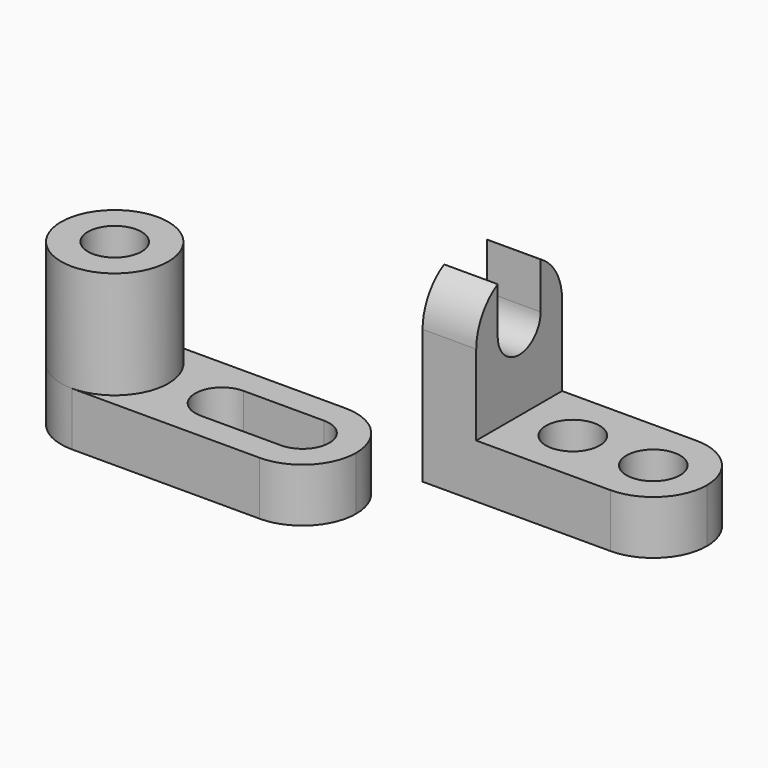
from build123d import *

# Parameters (mm, degrees)
F1_DEPTH  = 25.4
F2_R      = 6.35
F3_DEPTH  = 12.7
F5_DEPTH  = 12.7
F6_W      = 69.85
F6_H      = 25.4
F7_DEPTH  = 12.7
F8_R      = 6.35
F9_DEPTH  = 12.7
F10_DEPTH = 25.4


with BuildPart() as f1:
    # F0 (on Front) → F1 (new body)
    with BuildSketch(Plane.XZ):
        Polygon((0, 44.45), (0, 0), (57.15, 0), (57.15, 12.7), (12.7, 12.7), (12.7, 44.45), align=None)
    extrude(amount=F1_DEPTH)

    # F2 (on face) → F3 (cut)
    with BuildSketch(Plane.XY.offset(12.7)):
        with Locations((25.4, -12.7)):
            Circle(F2_R)
        with Locations((44.45, -12.7)):
            Circle(F2_R)
        with BuildLine():
            ThreePointArc((44.45, 0), (53.4302561211, -3.7197438789), (57.15, -12.7))
            Line((57.15, -12.7), (57.15, 0))
            Line((57.15, 0), (44.45, 0))
        make_face()
        with BuildLine():
            ThreePointArc((57.15, -12.7), (53.4302561211, -21.6802561211), (44.45, -25.4))
            Line((44.45, -25.4), (57.15, -25.4))
            Line((57.15, -25.4), (57.15, -12.7))
        make_face()
    extrude(amount=-F3_DEPTH, mode=Mode.SUBTRACT)

    # F4 (on face) → F5 (cut)
    with BuildSketch(Plane.YZ.offset(12.7)):
        with BuildLine():
            ThreePointArc((-19.05, 31.75), (-12.7, 25.4), (-6.35, 31.75))
            ThreePointArc((-6.35, 31.75), (-12.7, 38.1), (-19.05, 31.75))
        make_face()
        with BuildLine():
            ThreePointArc((-19.05, 31.75), (-12.7, 38.1), (-6.35, 31.75))
            Line((-6.35, 31.75), (-6.35, 42.7070968094))
            ThreePointArc((-6.35, 42.7070968094), (-12.7, 44.4085636898), (-19.05, 42.7070968094))
            Line((-19.05, 42.7070968094), (-19.05, 31.75))
        make_face()
        with BuildLine():
            ThreePointArc((-19.05, 31.75), (-12.7, 38.1), (-6.35, 31.75))
            Line((-6.35, 31.75), (-6.35, 42.7070968094))
            ThreePointArc((-6.35, 42.7070968094), (-12.7, 44.4085636898), (-19.05, 42.7070968094))
            Line((-19.05, 42.7070968094), (-19.05, 31.75))
        make_face()
        with BuildLine():
            ThreePointArc((-19.05, 42.7070968094), (-12.7, 44.4085636898), (-6.35, 42.7070968094))
            Line((-6.35, 42.7070968094), (-6.35, 44.45))
            Line((-6.35, 44.45), (-19.05, 44.45))
            Line((-19.05, 44.45), (-19.05, 42.7070968094))
        make_face()
        with BuildLine():
            Line((-6.35, 44.45), (-6.35, 42.7070968094))
            ThreePointArc((-6.35, 42.7070968094), (-1.711819185, 38.0765100807), (0, 31.75))
            Line((0, 31.75), (0, 44.45))
            Line((0, 44.45), (-6.35, 44.45))
        make_face()
        with BuildLine():
            ThreePointArc((-25.4, 31.75), (-23.688180815, 38.0765100807), (-19.05, 42.7070968094))
            Line((-19.05, 42.7070968094), (-19.05, 44.45))
            Line((-19.05, 44.45), (-25.4, 44.45))
            Line((-25.4, 44.45), (-25.4, 31.75))
        make_face()
    extrude(amount=-F5_DEPTH, mode=Mode.SUBTRACT)


with BuildPart() as f7:
    # F6 (on Top) → F7 (new body)
    with BuildSketch(Plane.XY):
        with Locations((-36.4869730547, -43.0925186506)):
            Rectangle(F6_W, F6_H)
    extrude(amount=F7_DEPTH)

    # F8 (on face) → F9 (cut)
    with BuildSketch(Plane.XY.offset(12.7)):
        with BuildLine():
            ThreePointArc((-26.9619730547, -43.0925186506), (-28.8218449942, -38.60239059), (-33.3119730547, -36.7425186506))
            ThreePointArc((-33.3119730547, -36.7425186506), (-39.6619730547, -43.0925186506), (-33.3119730547, -49.4425186506))
            ThreePointArc((-33.3119730547, -49.4425186506), (-28.8218449942, -47.5826467111), (-26.9619730547, -43.0925186506))
        make_face()
        with BuildLine():
            ThreePointArc((-14.2619730547, -49.4425186506), (-9.7718449942, -47.5826467111), (-7.9119730547, -43.0925186506))
            ThreePointArc((-7.9119730547, -43.0925186506), (-9.7718449942, -38.60239059), (-14.2619730547, -36.7425186506))
            ThreePointArc((-14.2619730547, -36.7425186506), (-20.6119730547, -43.0925186506), (-14.2619730547, -49.4425186506))
        make_face()
        with BuildLine():
            Line((-1.5619730547, -30.3925186506), (-14.2619730547, -30.3925186506))
            ThreePointArc((-14.2619730547, -30.3925186506), (-5.2817169336, -34.1122625295), (-1.5619730547, -43.0925186506))
            Line((-1.5619730547, -43.0925186506), (-1.5619730547, -30.3925186506))
        make_face()
        with BuildLine():
            ThreePointArc((-1.5619730547, -43.0925186506), (-5.2817169336, -52.0727747716), (-14.2619730547, -55.7925186506))
            Line((-14.2619730547, -55.7925186506), (-1.5619730547, -55.7925186506))
            Line((-1.5619730547, -55.7925186506), (-1.5619730547, -43.0925186506))
        make_face()
        with BuildLine():
            ThreePointArc((-71.4119730547, -43.0925186506), (-67.6922291758, -34.1122625295), (-58.7119730547, -30.3925186506))
            Line((-58.7119730547, -30.3925186506), (-71.4119730547, -30.3925186506))
            Line((-71.4119730547, -30.3925186506), (-71.4119730547, -43.0925186506))
        make_face()
        with BuildLine():
            Line((-71.4119730547, -55.7925186506), (-58.7119730547, -55.7925186506))
            ThreePointArc((-58.7119730547, -55.7925186506), (-67.6922291758, -52.0727747716), (-71.4119730547, -43.0925186506))
            Line((-71.4119730547, -43.0925186506), (-71.4119730547, -55.7925186506))
        make_face()
        with Locations((-58.7119730547, -43.0925186506)):
            Circle(F8_R)
        with BuildLine():
            ThreePointArc((-14.2619730547, -49.4425186506), (-20.6119730547, -43.0925186506), (-14.2619730547, -36.7425186506))
            Line((-14.2619730547, -36.7425186506), (-33.3119730547, -36.7425186506))
            ThreePointArc((-33.3119730547, -36.7425186506), (-28.8218449942, -38.60239059), (-26.9619730547, -43.0925186506))
            ThreePointArc((-26.9619730547, -43.0925186506), (-28.8218449942, -47.5826467111), (-33.3119730547, -49.4425186506))
            Line((-33.3119730547, -49.4425186506), (-14.2619730547, -49.4425186506))
        make_face()
    extrude(amount=-F9_DEPTH, mode=Mode.SUBTRACT)

    # F8 (on face) → F10 (join)
    with BuildSketch(Plane.XY.offset(12.7)):
        with BuildLine():
            ThreePointArc((-58.7119730547, -55.7925186506), (-49.7317169336, -52.0727747716), (-46.0119730547, -43.0925186506))
            ThreePointArc((-46.0119730547, -43.0925186506), (-49.7317169336, -34.1122625295), (-58.7119730547, -30.3925186506))
            ThreePointArc((-58.7119730547, -30.3925186506), (-67.6922291758, -34.1122625295), (-71.4119730547, -43.0925186506))
            ThreePointArc((-71.4119730547, -43.0925186506), (-67.6922291758, -52.0727747716), (-58.7119730547, -55.7925186506))
        make_face()
        with Locations((-58.7119730547, -43.0925186506)):
            Circle(F8_R, mode=Mode.SUBTRACT)
    extrude(amount=F10_DEPTH)


solid = Compound([f1.part, f7.part])
